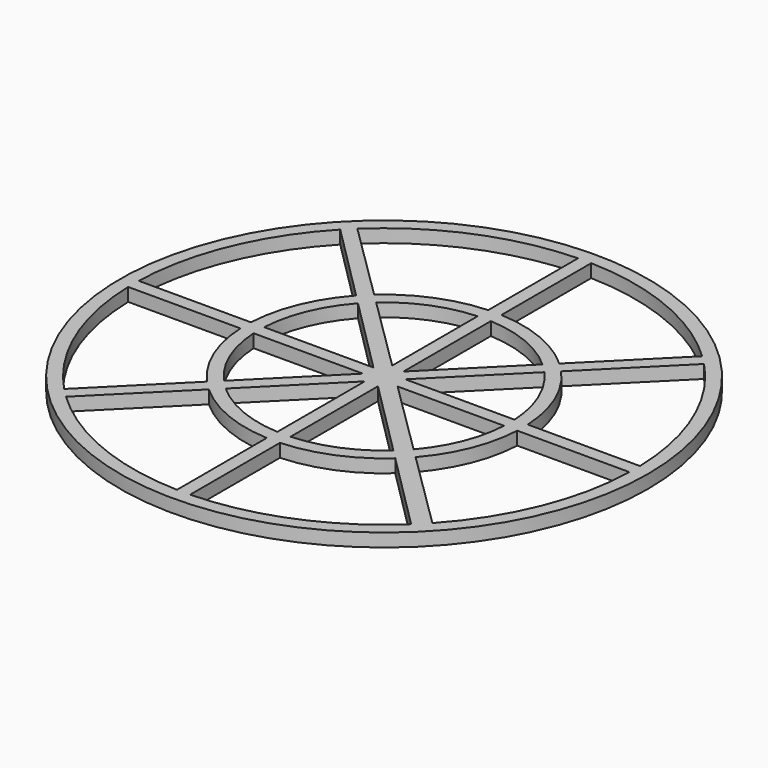
from build123d import *

# Parameters (mm, degrees)
F0_R     = 40
F1_DEPTH = 2


with BuildPart() as f1:
    # F0 (on Top) → F1 (new body)
    with BuildSketch(Plane.XY):
        Circle(F0_R)
        with BuildLine():
            ThreePointArc((-1, -37.98684), (-14.54197, -35.107422), (-26.153645, -27.567859))
            Line((-26.153645, -27.567859), (-14.12529, -15.539504))
            ThreePointArc((-14.12529, -15.539504), (-8.036352, -19.40147), (-1, -20.976177))
            Line((-1, -20.976177), (-1, -37.98684))
        make_face(mode=Mode.SUBTRACT)
        with BuildLine():
            ThreePointArc((-27.567859, -26.153645), (-35.107422, -14.54197), (-37.98684, -1))
            Line((-37.98684, -1), (-20.976177, -1))
            ThreePointArc((-20.976177, -1), (-19.40147, -8.036352), (-15.539504, -14.12529))
            Line((-15.539504, -14.12529), (-27.567859, -26.153645))
        make_face(mode=Mode.SUBTRACT)
        with BuildLine():
            Line((-12.709301, -14.123515), (-1, -2.414214))
            Line((-1, -2.414214), (-1, -18.973666))
            ThreePointArc((-1, -18.973666), (-7.270985, -17.553711), (-12.709301, -14.123515))
        make_face(mode=Mode.SUBTRACT)
        with BuildLine():
            Line((-18.973666, -1), (-2.414214, -1))
            Line((-2.414214, -1), (-14.123515, -12.709301))
            ThreePointArc((-14.123515, -12.709301), (-17.553711, -7.270985), (-18.973666, -1))
        make_face(mode=Mode.SUBTRACT)
        with BuildLine():
            ThreePointArc((26.153667, -27.567838), (14.541984, -35.107417), (1, -37.98684))
            Line((1, -37.98684), (1, -20.976177))
            ThreePointArc((1, -20.976177), (8.036363, -19.401466), (14.125308, -15.539488))
            Line((14.125308, -15.539488), (26.153667, -27.567838))
        make_face(mode=Mode.SUBTRACT)
        with BuildLine():
            Line((1, -18.973666), (1, -2.41419))
            Line((1, -2.41419), (12.709318, -14.123499))
            ThreePointArc((12.709318, -14.123499), (7.270996, -17.553707), (1, -18.973666))
        make_face(mode=Mode.SUBTRACT)
        with BuildLine():
            Line((2.841964, -1), (18.973666, -1))
            ThreePointArc((18.973666, -1), (17.630958, -7.081619), (14.393828, -12.402327))
            Line((14.393828, -12.402327), (2.841964, -1))
        make_face(mode=Mode.SUBTRACT)
        with BuildLine():
            Line((20.976177, -1), (37.98684, -1))
            ThreePointArc((37.98684, -1), (35.208434, -14.29567), (27.93158, -25.764837))
            Line((27.93158, -25.764837), (15.820177, -13.810213))
            ThreePointArc((15.820177, -13.810213), (19.48123, -7.841026), (20.976177, -1))
        make_face(mode=Mode.SUBTRACT)
        with BuildLine():
            Line((-27.567857, 26.153647), (-15.539498, 14.125296))
            ThreePointArc((-15.539498, 14.125296), (-19.401469, 8.036356), (-20.976177, 1))
            Line((-20.976177, 1), (-37.98684, 1))
            ThreePointArc((-37.98684, 1), (-35.107422, 14.541971), (-27.567857, 26.153647))
        make_face(mode=Mode.SUBTRACT)
        with BuildLine():
            Line((-14.123509, 12.709308), (-2.414192, 1))
            Line((-2.414192, 1), (-18.973666, 1))
            ThreePointArc((-18.973666, 1), (-17.553709, 7.270989), (-14.123509, 12.709308))
        make_face(mode=Mode.SUBTRACT)
        with BuildLine():
            Line((-1, 18.973666), (-1, 2.792231))
            Line((-1, 2.792231), (-12.588805, 14.231022))
            ThreePointArc((-12.588805, 14.231022), (-7.196324, 17.584451), (-1, 18.973666))
        make_face(mode=Mode.SUBTRACT)
        with BuildLine():
            ThreePointArc((-26.126558, 27.593532), (-14.524729, 35.114559), (-1, 37.98684))
            Line((-1, 37.98684), (-1, 20.976177))
            ThreePointArc((-1, 20.976177), (-7.967768, 19.429737), (-14.015155, 15.638908))
            Line((-14.015155, 15.638908), (-26.126558, 27.593532))
        make_face(mode=Mode.SUBTRACT)
        with BuildLine():
            Line((2.414214, 1), (14.123515, 12.709301))
            ThreePointArc((14.123515, 12.709301), (17.553711, 7.270985), (18.973666, 1))
            Line((18.973666, 1), (2.414214, 1))
        make_face(mode=Mode.SUBTRACT)
        with BuildLine():
            Line((12.709301, 14.123515), (1, 2.414214))
            Line((1, 2.414214), (1, 18.973666))
            ThreePointArc((1, 18.973666), (7.270985, 17.553711), (12.709301, 14.123515))
        make_face(mode=Mode.SUBTRACT)
        with BuildLine():
            ThreePointArc((27.567859, 26.153645), (35.107422, 14.54197), (37.98684, 1))
            Line((37.98684, 1), (20.976177, 1))
            ThreePointArc((20.976177, 1), (19.40147, 8.036352), (15.539504, 14.12529))
            Line((15.539504, 14.12529), (27.567859, 26.153645))
        make_face(mode=Mode.SUBTRACT)
        with BuildLine():
            Line((1, 20.976177), (1, 37.98684))
            ThreePointArc((1, 37.98684), (14.54197, 35.107422), (26.153645, 27.567859))
            Line((26.153645, 27.567859), (14.12529, 15.539504))
            ThreePointArc((14.12529, 15.539504), (8.036352, 19.40147), (1, 20.976177))
        make_face(mode=Mode.SUBTRACT)
    extrude(amount=F1_DEPTH)


solid = f1.part
